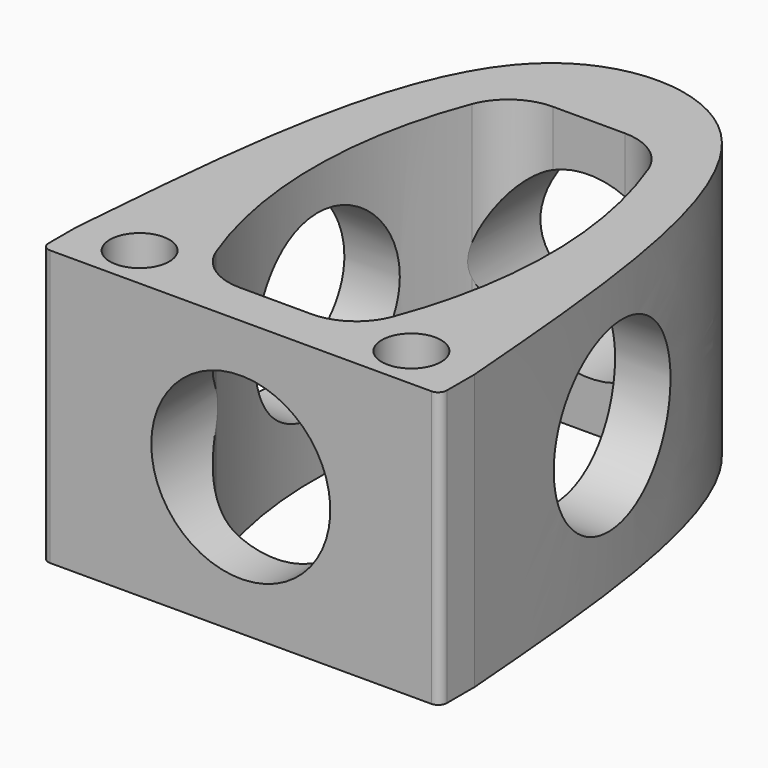
from build123d import *

# Parameters (mm, degrees)
F0_R     = 3.3703172414
F1_DEPTH = 31.242
F3_D     = 20.32
F5_D     = 20.32
F5_DEPTH = 24.6854472867
F7_D     = 20.32
F7_DEPTH = 20.5285529133


with BuildPart() as f1:
    # F0 (on Top) → F1 (new body)
    with BuildSketch(Plane.XY):
        with BuildLine():
            add(Edge.make_bspline(
                [(-20.5275528133, 0), (-18.8275725492, 21.1597767899), (-16.0725191688, 55.4521246519), (20.2398365965, 55.4524849576), (22.9884533584, 21.1598002442), (24.6844471867, 0)],
                knots=[0, 0, 0, 0, 0.3815897165, 0.6184189667, 1, 1, 1, 1], degree=3))
            Line((-20.5275528133, 0), (-20.5275528133, -3.9536914555))
            ThreePointArc((-20.5275528133, -3.9536914555), (-20.2433772266, -4.639752011), (-19.5573166711, -4.9239275977))
            Line((-19.5573166711, -4.9239275977), (23.7142110445, -4.9239275977))
            ThreePointArc((23.7142110445, -4.9239275977), (24.4002716, -4.639752011), (24.6844471867, -3.9536914555))
            Line((24.6844471867, -3.9536914555), (24.6844471867, 0))
        make_face()
        with Locations((-13.3472355719, 0)):
            Circle(F0_R, mode=Mode.SUBTRACT)
        with Locations((17.5041299453, 0)):
            Circle(F0_R, mode=Mode.SUBTRACT)
        with BuildLine():
            Line((6.1620298816, 0), (-1.9953760516, 0))
            ThreePointArc((-1.9953760516, 0), (-5.5954876571, 1.1191591088), (-7.9265921141, 4.0821428571))
            ThreePointArc((-7.9265921141, 4.0821428571), (-11.2768636144, 22.225), (-7.9265921141, 40.3678571429))
            ThreePointArc((-7.9265921141, 40.3678571429), (-5.5954876571, 43.3308408912), (-1.9953760516, 44.45))
            Line((-1.9953760516, 44.45), (6.1620298816, 44.45))
            ThreePointArc((6.1620298816, 44.45), (9.762141487, 43.3308408912), (12.0932459441, 40.3678571429))
            ThreePointArc((12.0932459441, 40.3678571429), (15.4435174444, 22.225), (12.0932459441, 4.0821428571))
            ThreePointArc((12.0932459441, 4.0821428571), (9.762141487, 1.1191591088), (6.1620298816, 0))
        make_face(mode=Mode.SUBTRACT)
    extrude(amount=F1_DEPTH)

    # F3 (through all)
    with Locations(Plane.XZ.offset(4.9239275977)):
        with Locations((2.0784471867, 15.621)):
            Hole(F3_D / 2)

    # F5 (through all, one way)
    with BuildSketch(Plane(origin=(0, 0, 0), x_dir=(0, 1, 0), z_dir=(-1, 0, 0))):
        with Locations((22.7233208716, -16.145516187)):
            Circle(F5_D / 2)
    extrude(amount=-F5_DEPTH, mode=Mode.SUBTRACT)

    # F7 (through all, one way)
    with BuildSketch(Plane.YZ):
        with Locations((22.7505713701, 16.3258425891)):
            Circle(F7_D / 2)
    extrude(amount=-F7_DEPTH, mode=Mode.SUBTRACT)


solid = f1.part
